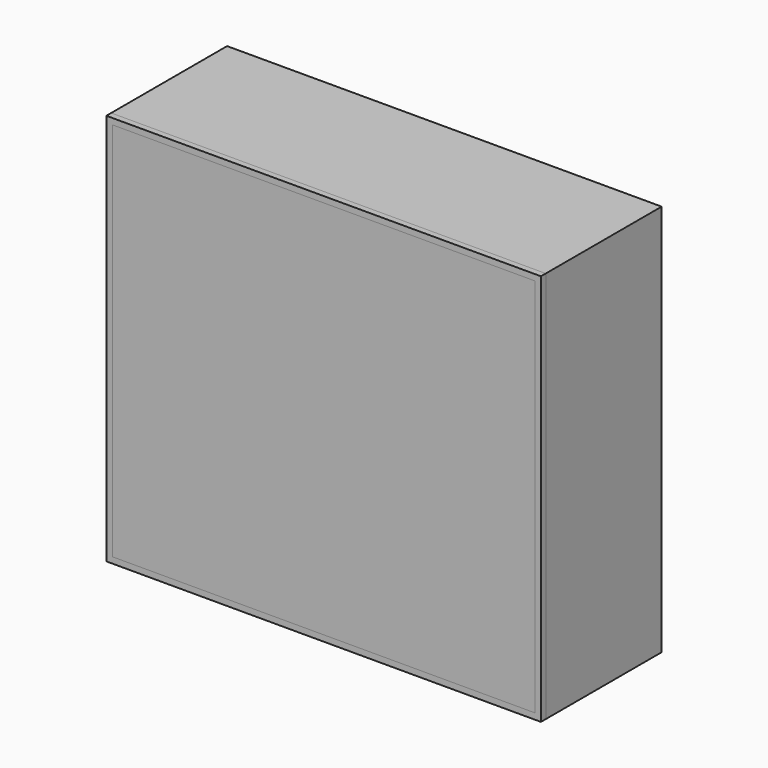
from build123d import *

# Parameters (mm, degrees)
F0_W      = 228.6
F0_H      = 76.2
F1_DEPTH  = 3.175
F2_W      = 76.2
F2_H      = 203.2
F3_DEPTH  = 3.175
F8_W      = 222.25
F8_H      = 200.025
F9_DEPTH  = 3.175
F10_W     = 228.6
F10_H     = 206.375
F10_W_2   = 222.25
F10_H_2   = 200.025
F11_DEPTH = 3.175


with BuildPart() as f1:
    # F0 (on Top) → F1 (new body)
    with BuildSketch(Plane.XY):
        with Locations((12.060761, -18.355442)):
            Rectangle(F0_W, F0_H)
    extrude(amount=F1_DEPTH)

    # F5: F3 across plane


with BuildPart() as f3:
    # F2 (on face) → F3 (new body)
    with BuildSketch(Plane(origin=(-102.239239, 0, 0), x_dir=(0, -1, 0), z_dir=(-1, 0, 0))):
        with Locations((18.355442, 104.775)):
            Rectangle(F2_W, F2_H)
    extrude(amount=-F3_DEPTH)


with BuildPart() as f1_1:
    add(f1.part)
    add(f3.part.mirror(Plane(origin=(12.060761, -18.355442, 1.5875), x_dir=(0, 1, 0), z_dir=(1, 0, 0))))


    add(f3.part)  # F7 merges F3
    # F7: F1 across plane


with BuildPart() as f1_2:
    add(f1_1.part)
    add(f1_1.part.mirror(Plane(origin=(-44.295489, -18.355442, 103.1875), x_dir=(1, 0, 0), z_dir=(0, 0, 1))))


with BuildPart() as f9:
    # F8 (on face) → F9 (new body)
    with BuildSketch(Plane.XZ.offset(56.455442)):
        with Locations((12.060761, 103.1875)):
            Rectangle(F8_W, F8_H)
    extrude(amount=F9_DEPTH)


with BuildPart() as f11:
    # F10 (on face) → F11 (new body, through all)
    with BuildSketch(Plane.XZ.offset(56.455442)):
        with Locations((12.060761, 103.1875)):
            Rectangle(F10_W, F10_H)
        with Locations((12.060761, 103.1875)):
            Rectangle(F10_W_2, F10_H_2, mode=Mode.SUBTRACT)
    extrude(amount=F11_DEPTH)


solid = Compound([f1_2.part, f9.part, f11.part])
